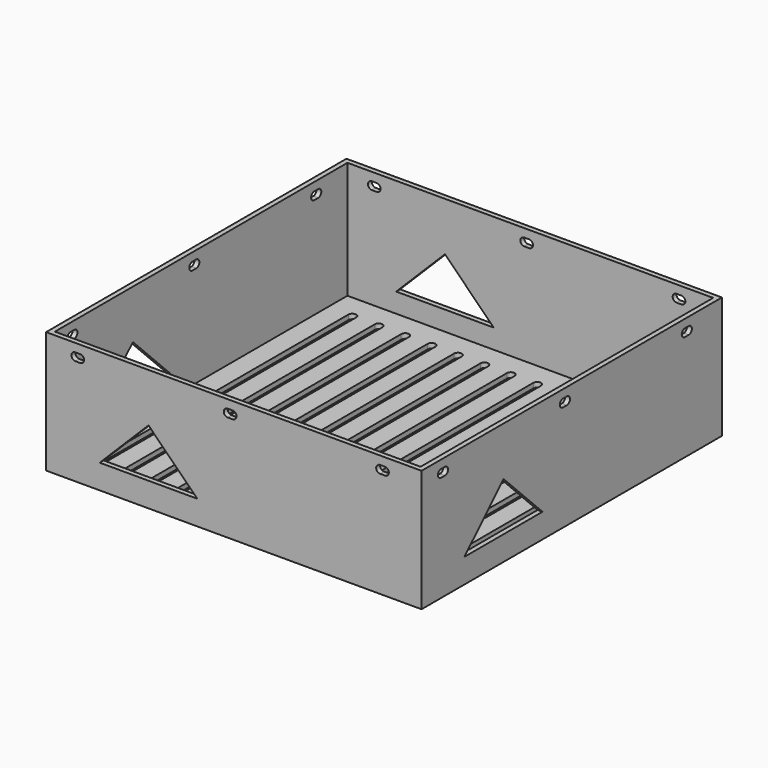
from build123d import *

# Parameters (mm, degrees)
SKETCH_W               = 150
SKETCH_H               = 150
PAD_DEPTH              = 2
POCKET_DEPTH           = 2.001
LINEARPATTERN_COUNT    = 13
LINEARPATTERN_PITCH    = 10.833333
SKETCH002_W            = 154
SKETCH002_H            = 154
SKETCH002_W_2          = 150
SKETCH002_H_2          = 150
PAD001_DEPTH           = 50
POCKET001_DEPTH        = 152
POCKET001_DEPTH_BACK   = 2
POCKET002_DEPTH        = 2
POCKET002_DEPTH_BACK   = 152
LINEARPATTERN001_COUNT = 3
LINEARPATTERN001_PITCH = 62.5
LINEARPATTERN002_COUNT = 3
LINEARPATTERN002_PITCH = 62.5
POCKET003_DEPTH        = 152
POCKET003_DEPTH_BACK   = 2
POCKET004_DEPTH        = 2
POCKET004_DEPTH_BACK   = 152


with BuildPart() as part:
    # Sketch → Pad (new body)
    with BuildSketch(Plane.XY):
        with Locations((75, 75)):
            Rectangle(SKETCH_W, SKETCH_H)
    extrude(amount=PAD_DEPTH)

    # Sketch001 → Pocket (cut, through all)
    with BuildSketch(Plane.XY):
        with BuildLine():
            ThreePointArc((11.6, 140), (10, 141.6), (8.4, 140))
            Line((8.4, 140), (8.4, 10))
            ThreePointArc((8.4, 10), (10, 8.4), (11.6, 10))
            Line((11.6, 140), (11.6, 10))
        make_face()
    pocket = extrude(amount=POCKET_DEPTH, mode=Mode.SUBTRACT)

    # LinearPattern: Pocket ×13
    with Locations(*[(i * LINEARPATTERN_PITCH, 0, 0) for i in range(1, LINEARPATTERN_COUNT)]):
        add(pocket, mode=Mode.SUBTRACT)

    # Sketch002 → Pad001 (join)
    with BuildSketch(Plane.XY):
        with Locations((75, 75)):
            Rectangle(SKETCH002_W, SKETCH002_H)
        with Locations((75, 75)):
            Rectangle(SKETCH002_W_2, SKETCH002_H_2, mode=Mode.SUBTRACT)
    extrude(amount=PAD001_DEPTH)

    # Sketch003 → Pocket001 (cut, two sides)
    with BuildSketch(Plane.XZ) as pocket001_sk:
        with BuildLine():
            ThreePointArc((10, 46.6), (8.4, 45), (10, 43.4))
            Line((10, 43.4), (12, 43.4))
            ThreePointArc((12, 43.4), (13.6, 45), (12, 46.6))
            Line((10, 46.6), (12, 46.6))
        make_face()
    pocket001 = extrude(amount=-POCKET001_DEPTH, mode=Mode.SUBTRACT) + extrude(pocket001_sk.sketch, amount=POCKET001_DEPTH_BACK, mode=Mode.SUBTRACT)

    # Sketch004 → Pocket002 (cut, two sides)
    with BuildSketch(Plane.YZ) as pocket002_sk:
        with BuildLine():
            ThreePointArc((10, 43.4), (11.6, 45), (10, 46.6))
            Line((10, 46.6), (8, 46.6))
            ThreePointArc((8, 46.6), (6.4, 45), (8, 43.4))
            Line((10, 43.4), (8, 43.4))
        make_face()
    pocket002 = extrude(amount=-POCKET002_DEPTH, mode=Mode.SUBTRACT) + extrude(pocket002_sk.sketch, amount=POCKET002_DEPTH_BACK, mode=Mode.SUBTRACT)

    # LinearPattern001: Pocket001 ×3
    with Locations(*[(i * LINEARPATTERN001_PITCH, 0, 0) for i in range(1, LINEARPATTERN001_COUNT)]):
        add(pocket001, mode=Mode.SUBTRACT)

    # LinearPattern002: Pocket002 ×3
    with Locations(*[(0, i * LINEARPATTERN002_PITCH, 0) for i in range(1, LINEARPATTERN002_COUNT)]):
        add(pocket002, mode=Mode.SUBTRACT)

    # Sketch005 → Pocket003 (cut, two sides)
    with BuildSketch(Plane.XZ) as pocket003_sk:
        Polygon((20, 10), (60, 10), (40, 30), align=None)
    extrude(amount=-POCKET003_DEPTH, mode=Mode.SUBTRACT)
    extrude(pocket003_sk.sketch, amount=POCKET003_DEPTH_BACK, mode=Mode.SUBTRACT)

    # Sketch006 → Pocket004 (cut, two sides)
    with BuildSketch(Plane.YZ) as pocket004_sk:
        Polygon((20, 10), (60, 10), (40, 30), align=None)
    extrude(amount=-POCKET004_DEPTH, mode=Mode.SUBTRACT)
    extrude(pocket004_sk.sketch, amount=POCKET004_DEPTH_BACK, mode=Mode.SUBTRACT)


solid = part.part
